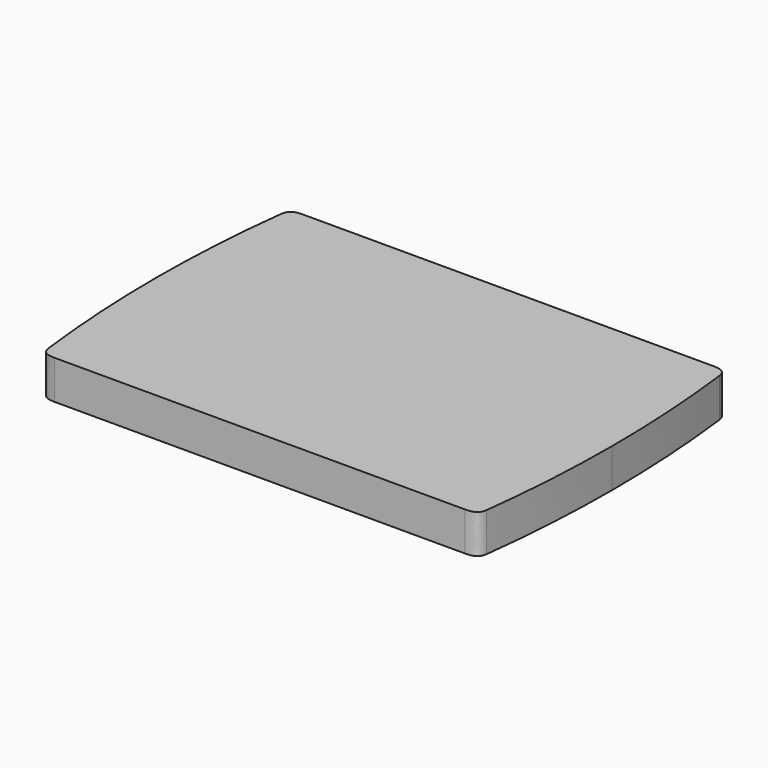
from build123d import *

# Parameters (mm, degrees)
F1_DEPTH = 25.4


with BuildPart() as f1:
    # F0 (on Top) → F1 (new body)
    with BuildSketch(Plane.XY):
        with BuildLine():
            Line((0, 101.6), (-134.462427, 101.6))
            add(Edge.make_bspline(
                [(-143.412056, 95.25), (-142.589703, 100.594588), (-139.256909, 101.509474), (-134.462427, 101.6)],
                knots=[0, 0, 0, 0, 10.973529, 10.973529, 10.973529, 10.973529], degree=3))
            ThreePointArc((-143.412056, 95.25), (-147.770413, 47.713606), (-149.225, 0))
            ThreePointArc((-149.225, 0), (-147.770413, -47.713606), (-143.412056, -95.25))
            add(Edge.make_bspline(
                [(-143.412056, -95.25), (-142.589703, -100.594588), (-139.256909, -101.509474), (-134.462427, -101.6)],
                knots=[0, 0, 0, 0, 10.973529, 10.973529, 10.973529, 10.973529], degree=3))
            Line((-134.462427, -101.6), (0, -101.6))
            Line((0, -101.6), (134.462427, -101.6))
            add(Edge.make_bspline(
                [(143.412056, -95.25), (142.589703, -100.594588), (139.256909, -101.509474), (134.462427, -101.6)],
                knots=[0, 0, 0, 0, 10.973529, 10.973529, 10.973529, 10.973529], degree=3))
            ThreePointArc((143.412056, -95.25), (147.770413, -47.713606), (149.225, 0))
            ThreePointArc((149.225, 0), (147.770413, 47.713606), (143.412056, 95.25))
            add(Edge.make_bspline(
                [(143.412056, 95.25), (142.589703, 100.594588), (139.256909, 101.509474), (134.462427, 101.6)],
                knots=[0, 0, 0, 0, 10.973529, 10.973529, 10.973529, 10.973529], degree=3))
            Line((134.462427, 101.6), (0, 101.6))
        make_face()
    extrude(amount=F1_DEPTH)


solid = f1.part
